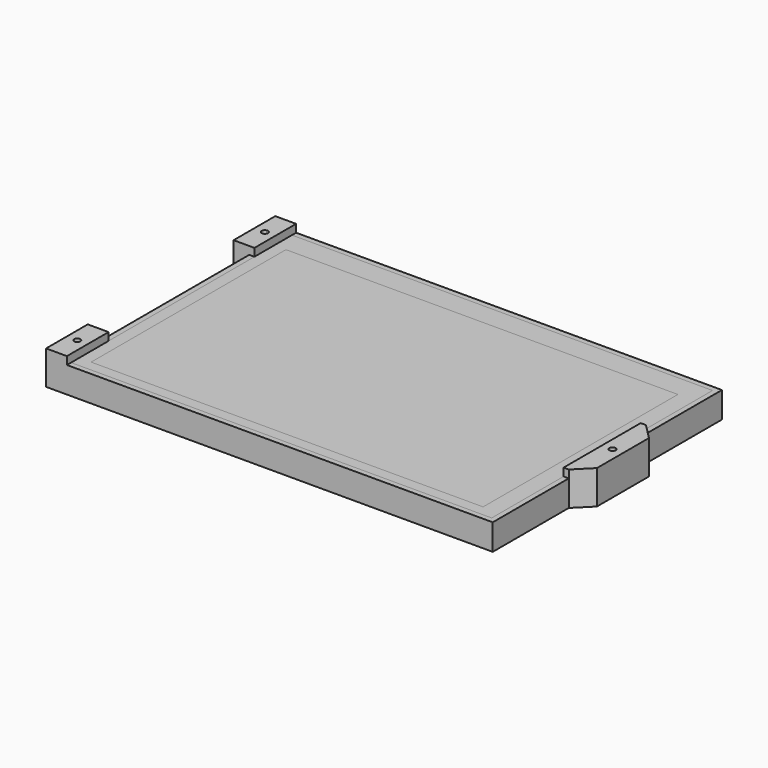
from build123d import *

# Parameters (mm, degrees)
F0_W      = 161.5
F0_H      = 106
F0_W_2    = 6
F0_H_2    = 20
F1_DEPTH  = 10
F2_W      = 161.5
F2_H      = 106
F3_DEPTH  = 7
F4_W      = 151.5
F4_H      = 40
F5_DEPTH  = 25
F6_W      = 161.5
F6_H      = 106
F6_W_2    = 150.5
F6_H_2    = 93.5
F7_DEPTH  = 3
F8_W      = 150.5
F8_H      = 93.5
F9_DEPTH  = 3
F10_W     = 8
F10_H     = 20
F11_DEPTH = 3
F12_R     = 1.2
F13_DEPTH = 25
F14_R     = 1.2
F15_DEPTH = 25


with BuildPart() as f1:
    # F0 (on Top) → F1 (new body)
    with BuildSketch(Plane.XY):
        Polygon((-82.75, -55), (82.75, -55), (82.75, -18.5), (82.75, 18.5), (82.75, 55), (-82.75, 55), (-82.75, 35), (-82.75, -35), align=None)
        Rectangle(F0_W, F0_H, mode=Mode.SUBTRACT)
        with Locations((-85.75, -45)):
            Rectangle(F0_W_2, F0_H_2)
        Polygon((82.75, 18.5), (82.75, -18.5), (88.75, -12.5), (88.75, 12.5), align=None)
        with Locations((-85.75, 45)):
            Rectangle(F0_W_2, F0_H_2)
    extrude(amount=F1_DEPTH)

    # F2 (on face) → F3 (join)
    with BuildSketch(Plane(origin=(0, 0, 0), x_dir=(1, 0, 0), z_dir=(0, 0, -1))):
        Rectangle(F2_W, F2_H)
    extrude(amount=-F3_DEPTH)

    # F4 (on face) → F5 (cut)
    with BuildSketch(Plane.XY.offset(7)):
        with Locations((0, 33)):
            Rectangle(F4_W, F4_H)
    extrude(amount=-F5_DEPTH, mode=Mode.SUBTRACT)

    # F10 (on face) → F11 (join)
    with BuildSketch(Plane.XY.offset(10)):
        with Locations((-84.75, 45)):
            Rectangle(F10_W, F10_H)
        with Locations((-84.75, -45)):
            Rectangle(F10_W, F10_H)
        Polygon((88.75, 12.5), (82.75, 18.5), (80.75, 18.5), (80.75, -18.5), (82.75, -18.5), (88.75, -12.5), align=None)
    extrude(amount=F11_DEPTH)

    # F12 (on face) → F13 (cut)
    with BuildSketch(Plane.XY.offset(13)):
        with Locations((-84.75, 45)):
            Circle(F12_R)
        with Locations((84.75, 0)):
            Circle(F12_R)
        with Locations((-84.75, -45)):
            Circle(F12_R)
    extrude(amount=-F13_DEPTH, mode=Mode.SUBTRACT)

    # F14 (on face) → F15 (cut)
    with BuildSketch(Plane(origin=(0, 0, 0), x_dir=(1, 0, 0), z_dir=(0, 0, -1))):
        with Locations((-72.75, 50)):
            Circle(F14_R)
        with Locations((-72.75, -7)):
            Circle(F14_R)
        with Locations((47.25, 40)):
            Circle(F14_R)
        with Locations((47.25, -10)):
            Circle(F14_R)
        with Locations((0.25, 15.5)):
            Circle(F14_R)
    extrude(amount=-F15_DEPTH, mode=Mode.SUBTRACT)


with BuildPart() as f7:
    # F6 (on face) → F7 (new body)
    with BuildSketch(Plane.XY.offset(7)):
        Rectangle(F6_W, F6_H)
        with Locations((-1, -2.25)):
            Rectangle(F6_W_2, F6_H_2, mode=Mode.SUBTRACT)
    extrude(amount=F7_DEPTH)


with BuildPart() as f9:
    # F8 (on face) → F9 (new body)
    with BuildSketch(Plane.XY.offset(10)):
        with Locations((-1, -2.25)):
            Rectangle(F8_W, F8_H)
    extrude(amount=-F9_DEPTH)


solid = Compound([f1.part, f7.part, f9.part])
